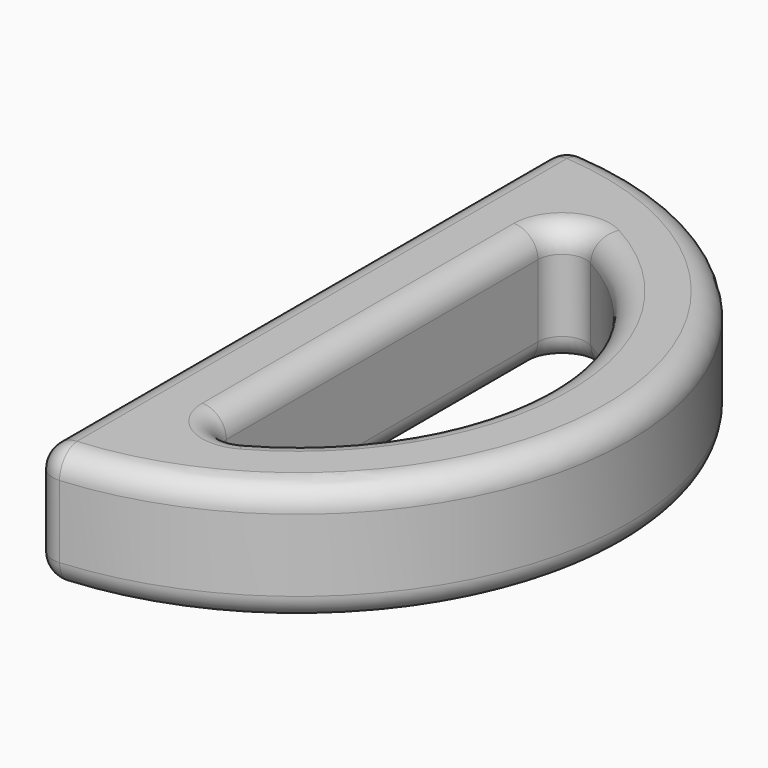
from build123d import *

# Parameters (mm, degrees)
F1_DEPTH = 10
F2_R     = 2


with BuildPart() as f1:
    # F0 (on Top) → F1 (new body)
    with BuildSketch(Plane.XY):
        with BuildLine():
            Line((0, 7), (0, 0))
            ThreePointArc((0, 0), (27.5, 27.5), (0, 55))
            Line((0, 55), (0, 48))
            ThreePointArc((0, 48), (3.553808, 47.689612), (7, 46.767849))
            ThreePointArc((7, 46.767849), (20.5, 27.5), (7, 8.232151))
            ThreePointArc((7, 8.232151), (3.553808, 7.310388), (0, 7))
        make_face()
        with BuildLine():
            Line((0, 27.5), (0, 7))
            ThreePointArc((0, 7), (3.553808, 7.310388), (7, 8.232151))
            Line((7, 8.232151), (7, 27.5))
            Line((7, 27.5), (0, 27.5))
        make_face()
        with BuildLine():
            Line((0, 48), (0, 27.5))
            Line((0, 27.5), (7, 27.5))
            Line((7, 27.5), (7, 46.767849))
            ThreePointArc((7, 46.767849), (3.553808, 47.689612), (0, 48))
        make_face()
    extrude(amount=F1_DEPTH)

    # F2
    f2_edges = [f1.edges().sort_by_distance(p)[0] for p in [
        (0, 0, 5),
        (0, 55, 5),
        (27.5, 27.5, 0),
        (27.5, 27.5, 10),
        (20.5, 27.5, 10),
        (7, 27.5, 10),
        (0, 27.5, 10),
        (20.5, 27.5, 0),
        (0, 27.5, 0),
        (7, 27.5, 0),
        (7, 8.232151, 5),
        (7, 46.767849, 5),
    ]]
    fillet(f2_edges, radius=F2_R)


solid = f1.part
